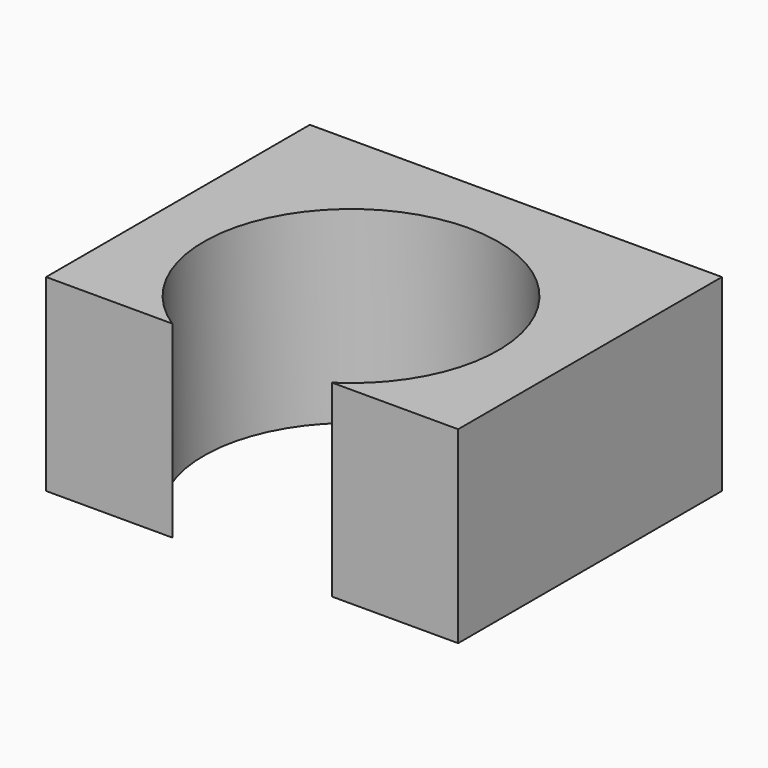
from build123d import *

# Parameters (mm, degrees)
F0_W     = 44.45
F0_H     = 44.45
F0_R     = 15.875
F1_DEPTH = 20.32
F3_DEPTH = 20.321


with BuildPart() as f1:
    # F0 (on Top) → F1 (new body)
    with BuildSketch(Plane.XY):
        Rectangle(F0_W, F0_H)
        Circle(F0_R, mode=Mode.SUBTRACT)
    extrude(amount=F1_DEPTH)

    # F2 (on face) → F3 (cut, through all)
    with BuildSketch(Plane.XY.offset(20.32)):
        with BuildLine():
            Line((-22.225, -13.335), (-22.225, -22.225))
            Line((-22.225, -22.225), (22.225, -22.225))
            Line((22.225, -22.225), (22.225, -13.335))
            Line((22.225, -13.335), (8.613559, -13.335))
            ThreePointArc((8.613559, -13.335), (0, -15.875), (-8.613559, -13.335))
            Line((-8.613559, -13.335), (-22.225, -13.335))
        make_face()
    extrude(amount=-F3_DEPTH, mode=Mode.SUBTRACT)


solid = f1.part
